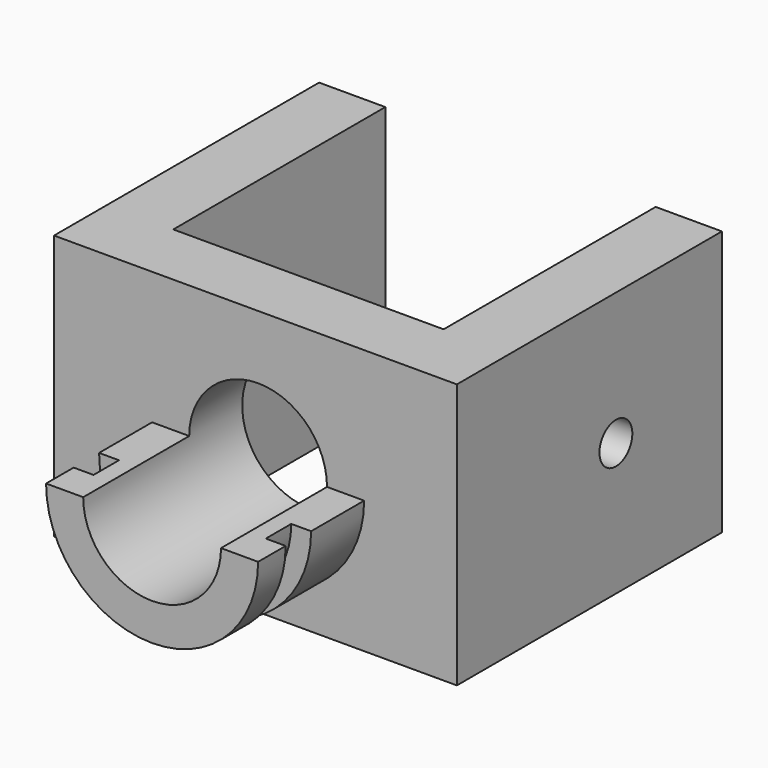
from build123d import *

# Parameters (mm, degrees)
F1_DEPTH  = 20
F2_R      = 5.2
F3_DEPTH  = 25
F5_DEPTH  = 10
F8_DEPTH  = 2.4
F9_R      = 1.55
F10_DEPTH = 40


with BuildPart() as f1:
    # F0 (on Top) → F1 (new body)
    with BuildSketch(Plane.XY):
        Polygon((0, 25), (0, 0), (30.4, 0), (30.4, 25), (25.4, 25), (25.4, 5), (5, 5), (5, 25), align=None)
    extrude(amount=F1_DEPTH)

    # F2 (on face) → F3 (cut)
    with BuildSketch(Plane.XZ):
        with Locations((15.4, 10)):
            Circle(F2_R)
    extrude(amount=-F3_DEPTH, mode=Mode.SUBTRACT)

    # F4 (on face) → F5 (join)
    with BuildSketch(Plane.XZ):
        with BuildLine():
            Line((10.2, 10), (7.4, 10))
            ThreePointArc((7.4, 10), (15.4, 2), (23.4, 10))
            Line((23.4, 10), (20.6, 10))
            ThreePointArc((20.6, 10), (15.4, 4.8), (10.2, 10))
        make_face()
    extrude(amount=F5_DEPTH)

    # F7 (on offset) → F8 (cut)
    with BuildSketch(Plane.XZ.offset(5)):
        with BuildLine():
            Line((23.4, 10), (21.9, 10))
            ThreePointArc((21.9, 10), (15.4, 3.5), (8.9, 10))
            Line((8.9, 10), (7.4, 10))
            ThreePointArc((7.4, 10), (15.4, 2), (23.4, 10))
        make_face()
    extrude(amount=F8_DEPTH, mode=Mode.SUBTRACT)

    # F9 (on face) → F10 (cut)
    with BuildSketch(Plane.YZ.offset(30.4)):
        with Locations((15, 10)):
            Circle(F9_R)
    extrude(amount=-F10_DEPTH, mode=Mode.SUBTRACT)


solid = f1.part
